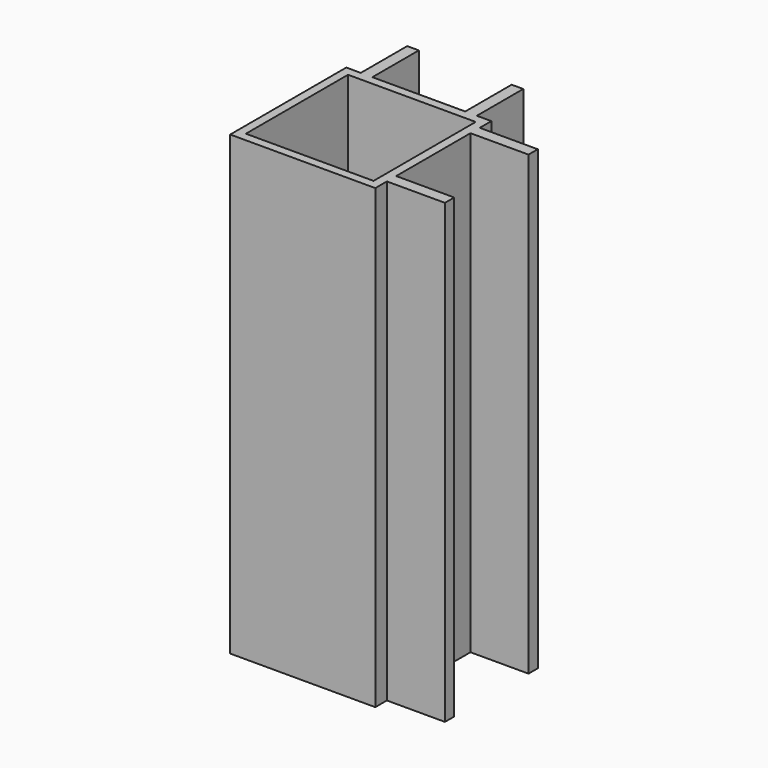
from build123d import *

# Parameters (mm, degrees)
F0_W     = 635
F0_H     = 635
F0_W_2   = 558.8
F0_H_2   = 558.8
F1_DEPTH = 2000
F2_W     = 50.8
F2_H     = 254
F2_W_2   = 254
F2_H_2   = 50.8
F3_DEPTH = 2000


with BuildPart() as f1:
    # F0 (on Top) → F1 (new body)
    with BuildSketch(Plane.XY):
        Rectangle(F0_W, F0_H)
        Rectangle(F0_W_2, F0_H_2, mode=Mode.SUBTRACT)
    extrude(amount=F1_DEPTH)

    # F2 (on Top) → F3 (join, through all)
    with BuildSketch(Plane.XY):
        with Locations((-228.6, 444.5)):
            Rectangle(F2_W, F2_H)
        with Locations((228.6, 444.5)):
            Rectangle(F2_W, F2_H)
        with Locations((444.5, 228.6)):
            Rectangle(F2_W_2, F2_H_2)
        with Locations((444.5, -228.6)):
            Rectangle(F2_W_2, F2_H_2)
    extrude(amount=F3_DEPTH)


solid = f1.part
